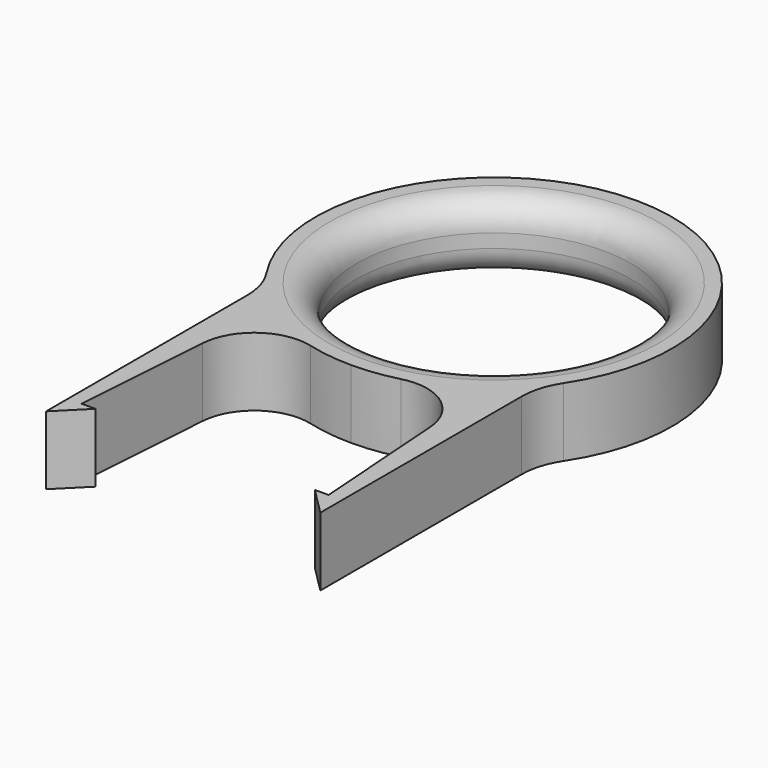
from build123d import *

# Parameters (mm, degrees)
F0_R     = 10
F1_DEPTH = 5
F2_R     = 2


with BuildPart() as f1:
    # F0 (on Top) → F1 (new body)
    with BuildSketch(Plane.XY):
        with BuildLine():
            ThreePointArc((-8.291035, -16.167959), (-6.633403, -13.197544), (-3.288831, -12.577106))
            ThreePointArc((-3.288831, -12.577106), (-1.657954, -12.893843), (0, -13))
            ThreePointArc((0, -13), (1.657954, -12.893843), (3.288831, -12.577106))
            ThreePointArc((3.288831, -12.577106), (6.633403, -13.197544), (8.291035, -16.167959))
            Line((8.291035, -16.167959), (9, -26.306624))
            Line((9, -26.306624), (8, -26.306624))
            Line((8, -26.306624), (10, -28.306624))
            Line((10, -28.306624), (10, -9.949874))
            ThreePointArc((10, -9.949874), (10.212864, -8.506499), (10.833333, -7.18602))
            ThreePointArc((10.833333, -7.18602), (0, 13), (-10.833333, -7.18602))
            ThreePointArc((-10.833333, -7.18602), (-10.212864, -8.506499), (-10, -9.949874))
            Line((-10, -9.949874), (-10, -28.306624))
            Line((-10, -28.306624), (-8, -26.306624))
            Line((-8, -26.306624), (-9, -26.306624))
            Line((-9, -26.306624), (-8.291035, -16.167959))
        make_face()
        Circle(F0_R, mode=Mode.SUBTRACT)
    extrude(amount=F1_DEPTH)

    # F2
    f2_edges = [f1.edges().sort_by_distance(p)[0] for p in [
        (-10, 0, 0),
        (-10, 0, 5),
    ]]
    fillet(f2_edges, radius=F2_R)


solid = f1.part
